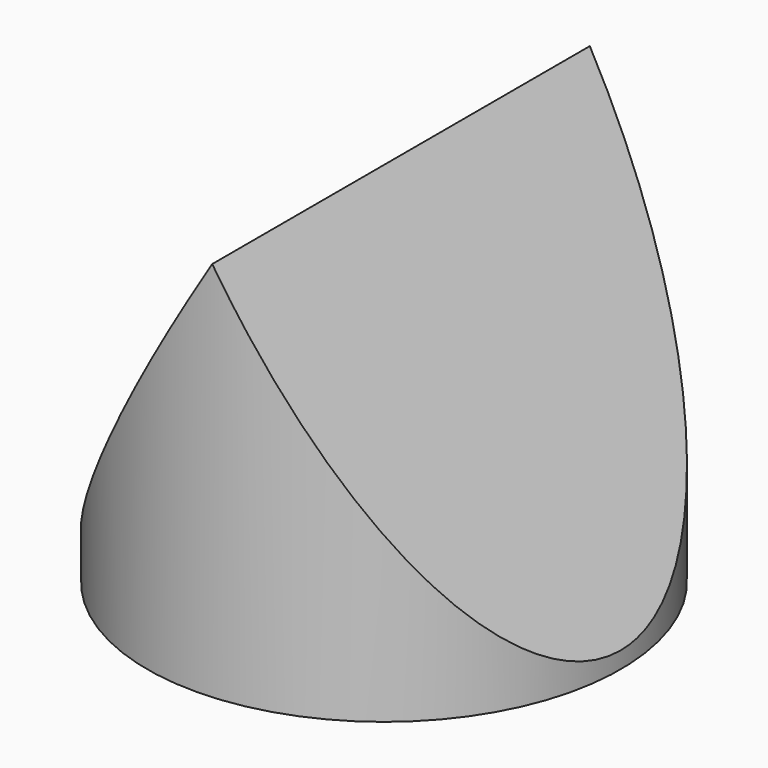
from build123d import *

# Parameters (mm, degrees)
F0_W     = 83.739126
F0_H     = 85.135351
F1_DEPTH = 76.2
F2_W     = 83.739126
F2_H     = 85.135351
F2_R     = 32.565114
F3_DEPTH = 76.2
F4_R     = 86.130148
F5_DEPTH = 152.4


with BuildPart() as f1:
    # F0 (on Top) → F1 (new body)
    with BuildSketch(Plane.XY):
        with Locations((65.940666, 56.417251)):
            Rectangle(F0_W, F0_H)
    extrude(amount=F1_DEPTH)

    # F2 (on face) → F3 (cut)
    with BuildSketch(Plane.XY.offset(76.2)):
        with Locations((65.940666, 56.417251)):
            Rectangle(F2_W, F2_H)
        with Locations((64.77081, 56.190282)):
            Circle(F2_R, mode=Mode.SUBTRACT)
    extrude(amount=-F3_DEPTH, mode=Mode.SUBTRACT)

    # F4 (on Front) → F5 (cut)
    with BuildSketch(Plane.XZ):
        with Locations((64.846843, 15.613325)):
            Circle(F4_R)
        Polygon((98.717026, 0), (35.403937, 0), (67.116521, 52.486237), align=None, mode=Mode.SUBTRACT)
    extrude(amount=-F5_DEPTH, mode=Mode.SUBTRACT)


solid = f1.part
